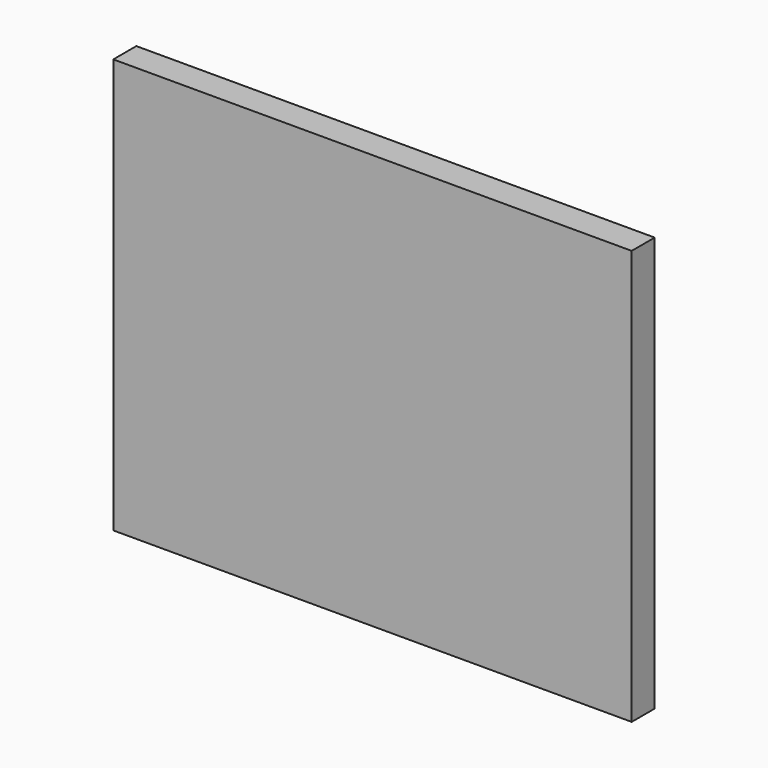
from build123d import *

# Parameters (mm, degrees)
SKETCH_W  = 2286
SKETCH_H  = 127
PAD_DEPTH = 1828.8


with BuildPart() as part:
    # Sketch → Pad (new body)
    with BuildSketch(Plane.XY):
        with Locations((1143, 63.5)):
            Rectangle(SKETCH_W, SKETCH_H)
    extrude(amount=PAD_DEPTH)


solid = part.part
